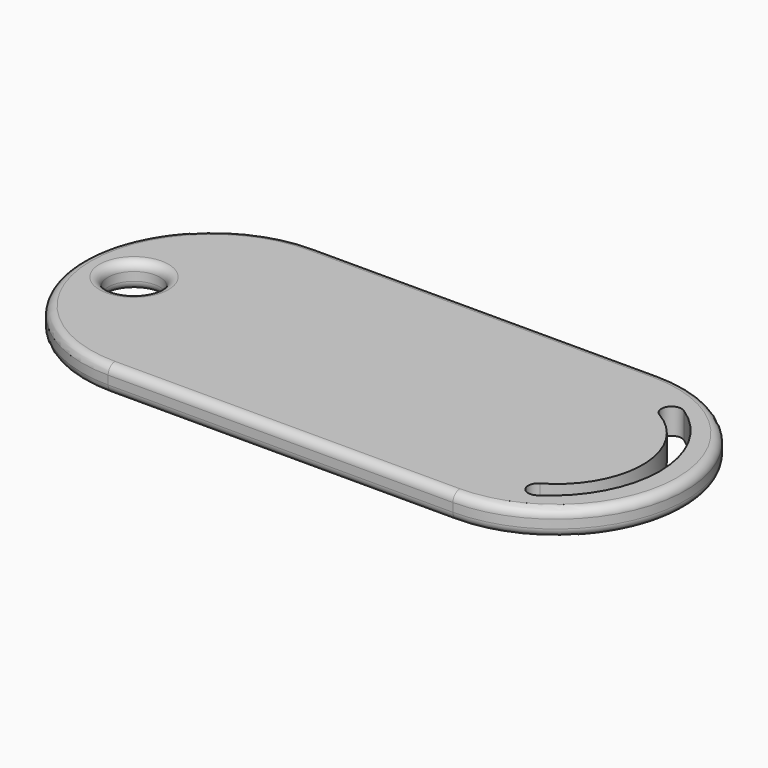
from build123d import *

# Parameters (mm, degrees)
PAD_DEPTH    = 3
FILLET_R     = 1
SKETCH002_R  = 3
POCKET_DEPTH = 3.001
FILLET002_R  = 1


with BuildPart() as part:
    # Sketch → Pad (new body)
    with BuildSketch(Plane.XY):
        with BuildLine():
            ThreePointArc((-20, 15), (-35, 0), (-20, -15))
            Line((-20, -15), (20, -15))
            ThreePointArc((20, -15), (35, 0), (20, 15))
            Line((-20, 15), (20, 15))
        make_face()
        with BuildLine():
            ThreePointArc((26.271227, -10.642419), (32, 0), (26.271227, 10.642419))
            ThreePointArc((26.271227, 10.642419), (24.622589, 10.280269), (25.030765, 8.642419))
            ThreePointArc((25.030765, -8.642419), (30, 0), (25.030765, 8.642419))
            ThreePointArc((25.030765, -8.642419), (24.622589, -10.280269), (26.271227, -10.642419))
        make_face(mode=Mode.SUBTRACT)
    extrude(amount=PAD_DEPTH)

    # Fillet
    fillet_edges = [part.edges().sort_by_distance(p)[0] for p in [
        (0, -15, 3),
        (-35, 0, 0),
    ]]
    fillet(fillet_edges, radius=FILLET_R)

    # Sketch002 → Pocket (cut, through all)
    with BuildSketch(Plane(origin=(0, 0, 0), x_dir=(1, 0, 0), z_dir=(0, 0, -1))):
        with Locations((-29, 0)):
            Circle(SKETCH002_R)
    extrude(amount=-POCKET_DEPTH, mode=Mode.SUBTRACT)

    # Fillet002
    fillet002_edges = [part.edges().sort_by_distance(p)[0] for p in [
        (-32, 0, 3),
        (-32, 0, 0),
    ]]
    fillet(fillet002_edges, radius=FILLET002_R)


solid = part.part
